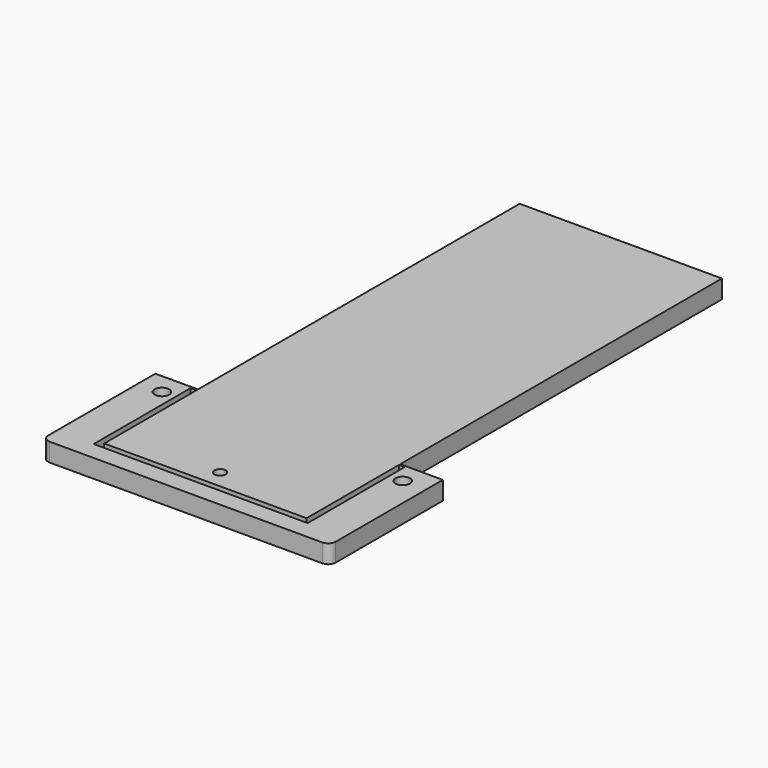
from build123d import *

# Parameters (mm, degrees)
SKETCH_R       = 3.96875
SKETCH_W       = 116.4
SKETCH_H       = 65.9
PAD_DEPTH      = 10
BOX_W          = 110.05
BOX_H          = 282.45
BOX_DEPTH      = 10
CYLINDER_R     = 3.03
CYLINDER_DEPTH = 10


with BuildPart() as part:
    # Sketch → Pad (new body)
    with BuildSketch(Plane.XY):
        with BuildLine():
            Line((78.2, 0), (-78.2, 0))
            Line((-78.2, 0), (-78.2, -72.9))
            ThreePointArc((-78.2, -72.9), (-77.028427, -75.728427), (-74.2, -76.9))
            Line((-74.2, -76.9), (74.2, -76.9))
            ThreePointArc((74.2, -76.9), (77.028427, -75.728427), (78.2, -72.9))
            Line((78.2, -72.9), (78.2, 0))
        make_face()
        with Locations((-65.5, -11.4)):
            Circle(SKETCH_R, mode=Mode.SUBTRACT)
        with Locations((65.5, -11.4)):
            Circle(SKETCH_R, mode=Mode.SUBTRACT)
        with Locations((0, -33.95)):
            Rectangle(SKETCH_W, SKETCH_H, mode=Mode.SUBTRACT)
    extrude(amount=PAD_DEPTH)

    # Box → Box (join)
    with BuildSketch(Plane(origin=(-55.025, -63.725, 0), x_dir=(1, 0, 0), z_dir=(0, 0, 1))):
        with Locations((55.025, 141.225)):
            Rectangle(BOX_W, BOX_H)
    extrude(amount=BOX_DEPTH)

    # Cylinder → Cylinder (cut)
    with BuildSketch(Plane(origin=(0, -53.725, 0), x_dir=(1, 0, 0), z_dir=(0, 0, 1))):
        Circle(CYLINDER_R)
    extrude(amount=CYLINDER_DEPTH, mode=Mode.SUBTRACT)


solid = part.part
